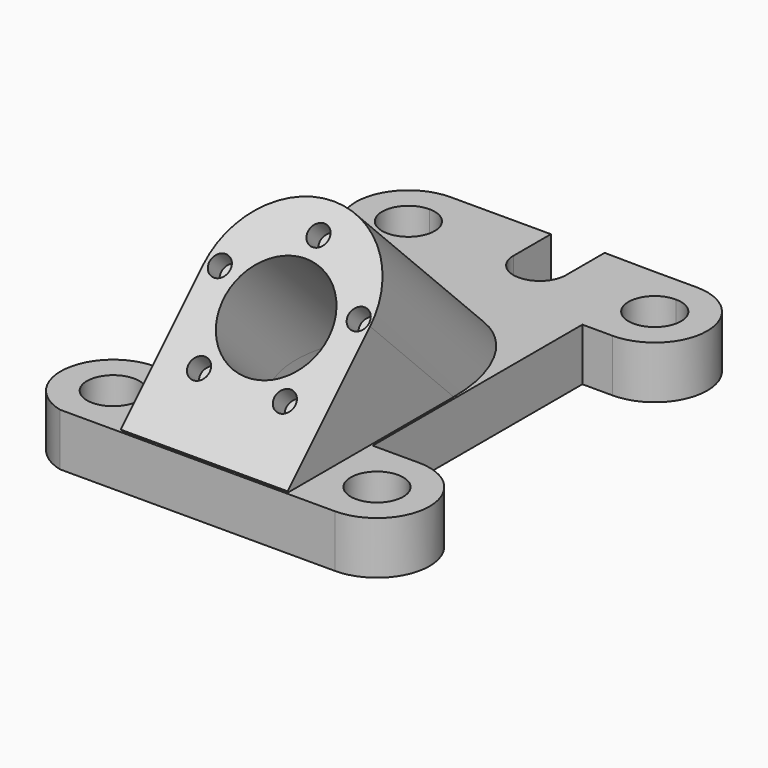
from build123d import *

# Parameters (mm, degrees)
F0_R     = 6.35
F1_DEPTH = 12.7
F3_W     = 40.3730167193
F3_H     = 35.2713091659
F5_R     = 2.54
F7_DEPTH = 5.08
F6_R     = 12.7
F8_DEPTH = 89.8240799379


with BuildPart() as f1:
    # F0 (on Top) → F1 (new body)
    with BuildSketch(Plane.XY):
        with BuildLine():
            Line((0, 25.0500811696), (0, 0))
            Line((0, 0), (40.8781252747, 0))
            Line((40.8781252747, 0), (40.8781252747, 25.4))
            Line((40.8781252747, 25.4), (40.8781252747, 88.7872132744))
            Line((40.8781252747, 88.7872132744), (48.2122819069, 88.7872132744))
            Line((48.2122819069, 88.7872132744), (48.2122819069, 95.1372132744))
            ThreePointArc((48.2122819069, 95.1372132744), (41.8622819069, 101.4872132744), (48.2122819069, 107.8372132744))
            Line((48.2122819069, 107.8372132744), (48.2122819069, 114.1872132744))
            Line((48.2122819069, 114.1872132744), (37.0997800088, 114.1872132744))
            Line((37.0997800088, 114.1872132744), (25.8245790959, 114.3290178623))
            Line((25.8245790959, 114.3290178623), (25.8245790959, 102.6404798031))
            ThreePointArc((25.8245790959, 102.6404798031), (19.4774063595, 96.2933070667), (13.1302336231, 102.6404798031))
            Line((13.1302336231, 102.6404798031), (13.1302336231, 113.9500811696))
            Line((13.1302336231, 113.9500811696), (0, 113.9500811696))
            Line((0, 113.9500811696), (-11.1529994756, 113.9500811696))
            Line((-11.1529994756, 113.9500811696), (-11.1529994756, 107.6000811696))
            ThreePointArc((-11.1529994756, 107.6000811696), (-6.6628714151, 105.7402092301), (-4.8029994756, 101.2500811696))
            ThreePointArc((-4.8029994756, 101.2500811696), (-6.6628714151, 96.7599531091), (-11.1529994756, 94.9000811696))
            Line((-11.1529994756, 94.9000811696), (-11.1529994756, 88.5500811696))
            Line((-11.1529994756, 88.5500811696), (0, 88.5500811696))
            Line((0, 88.5500811696), (0, 25.0500811696))
        make_face()
        with BuildLine():
            Line((-14.3708139776, 0), (0, 0))
            Line((0, 0), (0, 25.0500811696))
            Line((0, 25.0500811696), (-11.4101560939, 25.0500811696))
            ThreePointArc((-11.4101560939, 25.0500811696), (-24.0223730056, 13.8407134425), (-14.3708139776, 0))
        make_face()
        with Locations((-11.4101560939, 12.3500811696)):
            Circle(F0_R, mode=Mode.SUBTRACT)
        with BuildLine():
            Line((40.8781252747, 25.4), (40.8781252747, 0))
            Line((40.8781252747, 0), (52.0898439061, 0))
            ThreePointArc((52.0898439061, 0), (64.7898439061, 12.7), (52.0898439061, 25.4))
            Line((52.0898439061, 25.4), (40.8781252747, 25.4))
        make_face()
        with Locations((52.0898439061, 12.7)):
            Circle(F0_R, mode=Mode.SUBTRACT)
        with BuildLine():
            ThreePointArc((-11.1529994756, 113.9500811696), (-23.8529994756, 101.2500811696), (-11.1529994756, 88.5500811696))
            Line((-11.1529994756, 88.5500811696), (-11.1529994756, 94.9000811696))
            ThreePointArc((-11.1529994756, 94.9000811696), (-17.5029994756, 101.2500811696), (-11.1529994756, 107.6000811696))
            Line((-11.1529994756, 107.6000811696), (-11.1529994756, 113.9500811696))
        make_face()
        with BuildLine():
            Line((48.2122819069, 95.1372132744), (48.2122819069, 88.7872132744))
            ThreePointArc((48.2122819069, 88.7872132744), (60.9122819069, 101.4872132744), (48.2122819069, 114.1872132744))
            Line((48.2122819069, 114.1872132744), (48.2122819069, 107.8372132744))
            ThreePointArc((48.2122819069, 107.8372132744), (52.7024099674, 105.977341335), (54.5622819069, 101.4872132744))
            ThreePointArc((54.5622819069, 101.4872132744), (52.7024099674, 96.9970852139), (48.2122819069, 95.1372132744))
        make_face()
    extrude(amount=F1_DEPTH)


with BuildPart() as f4:
    # F3 (on face) → F4 (new body, up to the next surface of F1)
    with BuildSketch(Plane(origin=(0, -6.35, 6.35), x_dir=(1, 0, 0), z_dir=(0, -0.7071067812, 0.7071067812))):
        with Locations((20.1865083596, 27.0684621477)):
            Rectangle(F3_W, F3_H)
        with BuildLine():
            ThreePointArc((40.3730167193, 44.7041167306), (20.1865083596, 64.8906250903), (0, 44.7041167306))
            Line((0, 44.7041167306), (40.3730167193, 44.7041167306))
        make_face()
    extrude(until=Until.NEXT, target=f1.part, dir=(0, 0.7071067812, -0.7071067812))

    # F5 (on face) → F7 (cut)
    with BuildSketch(Plane(origin=(0, -6.35, 6.35), x_dir=(1, 0, 0), z_dir=(0, -0.7071067812, 0.7071067812))):
        with Locations((20.5244645476, 57.7262341976)):
            Circle(F5_R)
        with Locations((3.5063998094, 45.6306987153)):
            Circle(F5_R)
        with Locations((9.7510664325, 25.7078313312)):
            Circle(F5_R)
        with Locations((30.6285473922, 25.4903576168)):
            Circle(F5_R)
        with Locations((37.2868736017, 45.2788188537)):
            Circle(F5_R)
    extrude(amount=-F7_DEPTH, mode=Mode.SUBTRACT)


with BuildPart() as f8_tool:
    # F6 (on face) → F8 (new body, through all)
    with BuildSketch(Plane(origin=(0, -6.35, 6.35), x_dir=(1, 0, 0), z_dir=(0, -0.7071067812, 0.7071067812))):
        with Locations((20.3394703567, 39.9667881429)):
            Circle(F6_R)
    extrude(amount=-F8_DEPTH)


with BuildPart() as f1_1:
    add(f1.part)

    # F8: cut by f8_tool
    add(f8_tool.part, mode=Mode.SUBTRACT)


with BuildPart() as f4_1:
    add(f4.part)

    # F8: cut by f8_tool
    add(f8_tool.part, mode=Mode.SUBTRACT)


solid = Compound([f1_1.part, f4_1.part])
